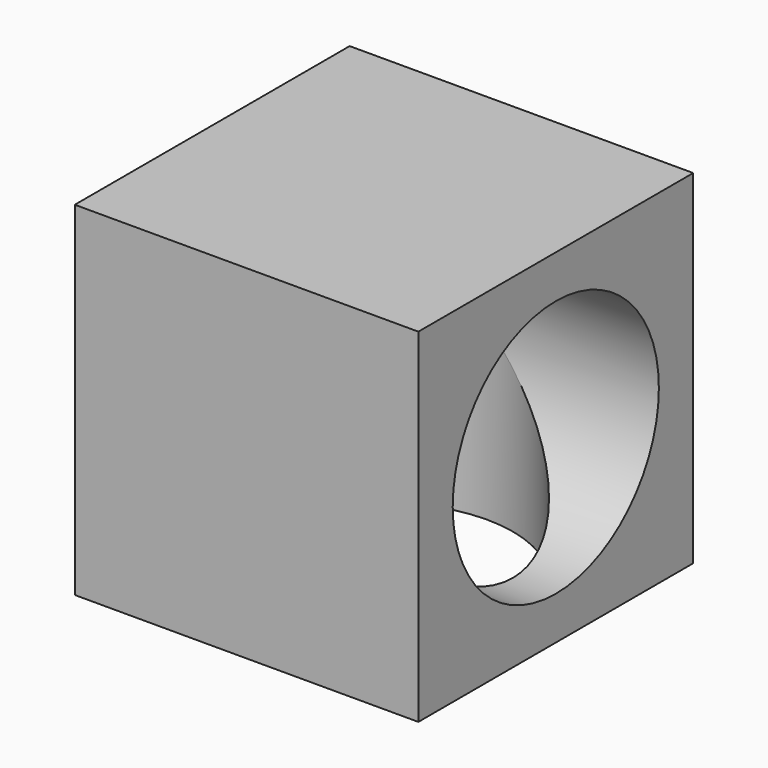
from build123d import *

# Parameters (mm, degrees)
F0_W          = 4
F0_H          = 4
F1_DEPTH      = 4
F2_R          = 1.5
F3_DEPTH      = 3.5
F4_R          = 1.5
F5_DEPTH      = 25.4
F5_DEPTH_BACK = 25.4


with BuildPart() as f1:
    # F0 (on Top) → F1 (new body)
    with BuildSketch(Plane.XY):
        Rectangle(F0_W, F0_H)
    extrude(amount=F1_DEPTH)

    # F2 (on Top) → F3 (cut)
    with BuildSketch(Plane.XY):
        Circle(F2_R)
    extrude(amount=F3_DEPTH, mode=Mode.SUBTRACT)

    # F4 (on Right) → F5 (cut, two sides)
    with BuildSketch(Plane.YZ) as f5_sk:
        with Locations((0, 2)):
            Circle(F4_R)
    extrude(amount=-F5_DEPTH, mode=Mode.SUBTRACT)
    extrude(f5_sk.sketch, amount=F5_DEPTH_BACK, mode=Mode.SUBTRACT)


solid = f1.part
